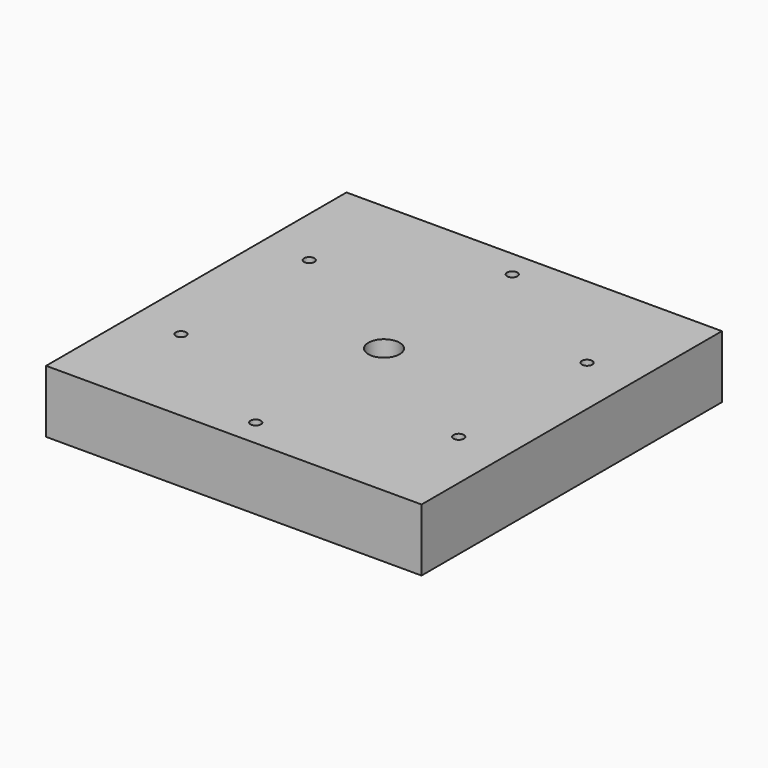
from build123d import *

# Parameters (mm, degrees)
F0_W     = 152.4
F0_H     = 152.4
F0_R     = 6.35
F1_DEPTH = 25.4
F2_D     = 4.2


with BuildPart() as f1:
    # F0 (on Top) → F1 (new body)
    with BuildSketch(Plane.XY):
        Rectangle(F0_W, F0_H)
        Circle(F0_R, mode=Mode.SUBTRACT)
    extrude(amount=-F1_DEPTH)

    # F2 (through all)
    with Locations(Plane.XY):
        with Locations((0, 65.0875), (-56.3674284688, 32.54375), (-56.3674284688, -32.54375), (0, -65.0875), (56.3674284688, -32.54375), (56.3674284688, 32.54375)):
            Hole(F2_D / 2)


solid = f1.part
